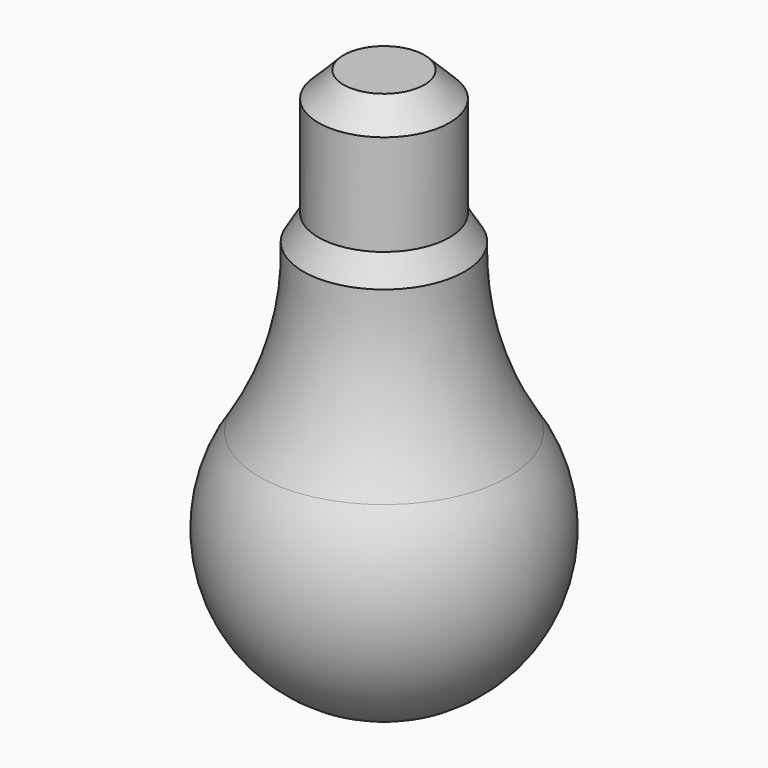
from build123d import *


with BuildPart() as f1:
    # F0 (on Front) → F1 (revolve)
    with BuildSketch(Plane.XZ):
        with BuildLine():
            Line((8, 143.999998), (0, 143.999998))
            Line((0, 143.999998), (0, 33.999998))
            ThreePointArc((0, 33.999998), (26.551836, 50.035758), (24.718414, 80.999998))
            ThreePointArc((24.718414, 80.999998), (17.96313, 96.866968), (16, 113.999998))
            Line((16, 113.999998), (13, 118.999998))
            Line((13, 118.999998), (13, 138.999998))
            Line((13, 138.999998), (8, 143.999998))
        make_face()
    revolve(axis=Axis((0, 0, 88.999998), (0, 0, 1)))


solid = f1.part
